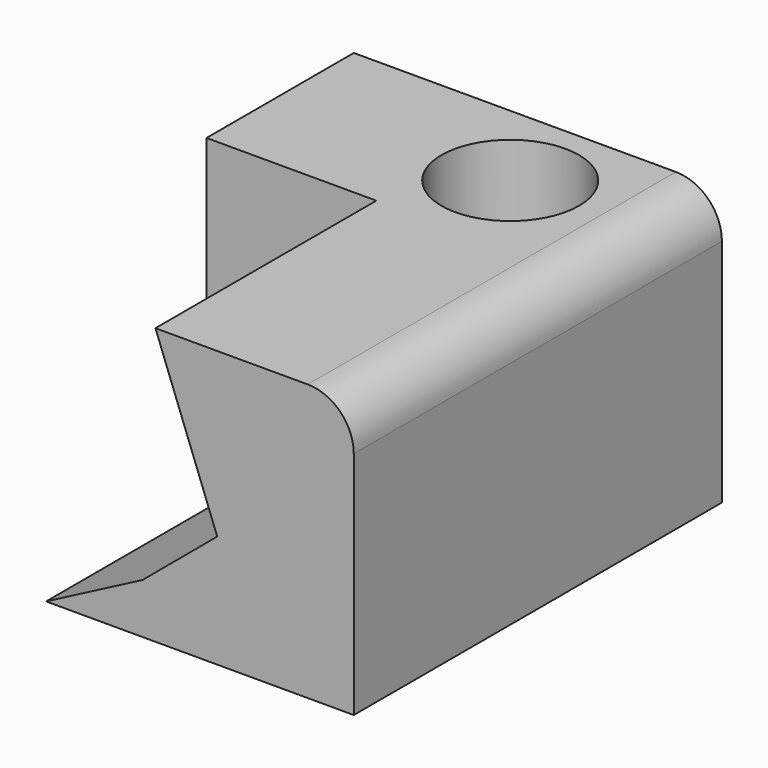
from build123d import *

# Parameters (mm, degrees)
F0_W     = 101.6
F0_H     = 76.2
F1_DEPTH = 127
F3_DEPTH = 76.2
F4_R     = 12.7
F5_R     = 18.977167
F6_DEPTH = 1270


with BuildPart() as f1:
    # F0 (on Front) → F1 (new body)
    with BuildSketch(Plane.XZ):
        with Locations((16.153131, 6.98517)):
            Rectangle(F0_W, F0_H)
    extrude(amount=F1_DEPTH)

    # F2 (on face) → F3 (cut)
    with BuildSketch(Plane.XZ.offset(127)):
        Polygon((12.216878, 45.08517), (-34.646869, 45.08517), (-34.646869, -31.11483), (-17.961076, -31.11483), (8.608649, -17.288411), (29.273987, 0), align=None)
    extrude(amount=-F3_DEPTH, mode=Mode.SUBTRACT)

    # F4
    f4_edges = [f1.edges().sort_by_distance(p)[0] for p in [
        (66.953131, -63.5, 45.08517),
    ]]
    fillet(f4_edges, radius=F4_R)

    # F5 (on face) → F6 (cut)
    with BuildSketch(Plane.XY.offset(45.08517)):
        with Locations((28.853131, -25.4)):
            Circle(F5_R)
    extrude(amount=-F6_DEPTH, mode=Mode.SUBTRACT)


solid = f1.part
